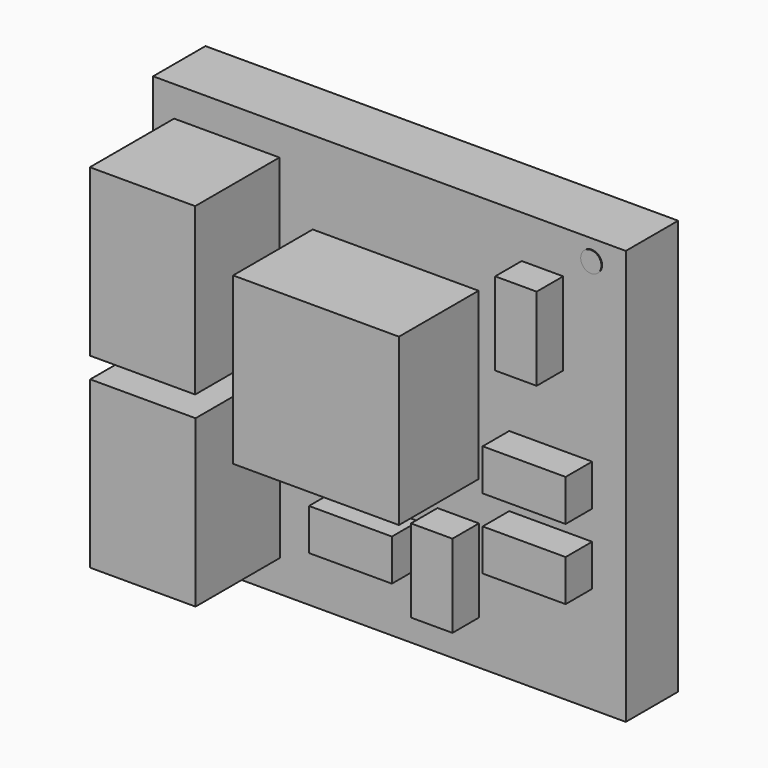
from build123d import *

# Parameters (mm, degrees)
F0_W      = 5.7
F0_H      = 5
F1_DEPTH  = 0.789
F2_W      = 2
F2_H      = 2
F3_DEPTH  = 1.2
F4_W      = 1.27
F4_H      = 0.5
F4_H_2    = 1
F5_DEPTH  = 1.27
F6_W      = 1
F6_H      = 0.5
F6_W_2    = 0.5
F6_H_2    = 1
F7_DEPTH  = 0.4
F8_R      = 0.125
F9_DEPTH  = 0.01
F10_W     = 0.7
F10_H     = 1.1
F10_W_2   = 0.6
F10_W_3   = 0.8
F10_H_2   = 1
F11_DEPTH = 0.05


with BuildPart() as f1:
    # F0 (on Front) → F1 (new body)
    with BuildSketch(Plane.XZ):
        with Locations((2.168227, -2.615547)):
            Rectangle(F0_W, F0_H)
    extrude(amount=F1_DEPTH)

    # F2 (on face) → F3 (join)
    with BuildSketch(Plane.XZ.offset(0.789)):
        with Locations((2.242705, -2.115547)):
            Rectangle(F2_W, F2_H)
    extrude(amount=F3_DEPTH)

    # F4 (on face) → F5 (join)
    with BuildSketch(Plane.XZ.offset(0.789)):
        with Locations((0.206497, -0.732273)):
            Rectangle(F4_W, F4_H)
        with Locations((0.206497, -1.482273)):
            Rectangle(F4_W, F4_H_2)
        Polygon((0.841497, -1.982273), (-0.428503, -1.982273), (-0.428503, -2.036124), (-0.428503, -2.482273), (0.841497, -2.482273), (0.841497, -2.036124), align=None)
        with Locations((0.21112, -2.982335)):
            Rectangle(F4_W, F4_H)
        with Locations((0.21112, -3.732335)):
            Rectangle(F4_W, F4_H_2)
        with Locations((0.21112, -4.482335)):
            Rectangle(F4_W, F4_H)
    extrude(amount=F5_DEPTH)

    # F6 (on face) → F7 (join)
    with BuildSketch(Plane.XZ.offset(0.789)):
        with Locations((2.017631, -4.048583)):
            Rectangle(F6_W, F6_H)
        with Locations((2.997681, -4.083691)):
            Rectangle(F6_W_2, F6_H_2)
        with Locations((4.112315, -3.584963)):
            Rectangle(F6_W, F6_H)
        with Locations((4.112315, -2.734225)):
            Rectangle(F6_W, F6_H)
        with Locations((4.013168, -1.130892)):
            Rectangle(F6_W_2, F6_H_2)
    extrude(amount=F7_DEPTH)

    # F8 (on face) → F9 (join)
    with BuildSketch(Plane.XZ.offset(0.789)):
        with Locations((4.607105, -0.36032)):
            Circle(F8_R)
    extrude(amount=F9_DEPTH)

    # F10 (on face) → F11 (join)
    with BuildSketch(Plane(origin=(0, 0, 0), x_dir=(-1, 0, 0), z_dir=(0, 1, 0))):
        with Locations((-4.418227, -4.315547)):
            Rectangle(F10_W, F10_H)
        with Locations((-4.368227, -2.615547)):
            Rectangle(F10_W_2, F10_H)
        with Locations((-2.168227, -2.615547)):
            Rectangle(F10_W_3, F10_H)
        with Locations((-1.018227, -2.615547)):
            Rectangle(F10_W, F10_H)
        with Locations((-3.318227, -4.315547)):
            Rectangle(F10_W, F10_H)
        with Locations((-2.168227, -4.315547)):
            Rectangle(F10_W_3, F10_H)
        with Locations((-1.018227, -4.265547)):
            Rectangle(F10_W, F10_H_2)
        with Locations((-4.418227, -0.915547)):
            Rectangle(F10_W, F10_H)
        with Locations((-3.318227, -0.915547)):
            Rectangle(F10_W, F10_H)
        with Locations((-2.168227, -0.915547)):
            Rectangle(F10_W_3, F10_H)
        with Locations((-1.018227, -0.965547)):
            Rectangle(F10_W, F10_H_2)
        with Locations((0.131773, -4.315547)):
            Rectangle(F10_W_3, F10_H)
        with Locations((0.031773, -2.615547)):
            Rectangle(F10_W_2, F10_H)
        with Locations((0.081773, -0.915547)):
            Rectangle(F10_W, F10_H)
    extrude(amount=F11_DEPTH)


solid = f1.part
